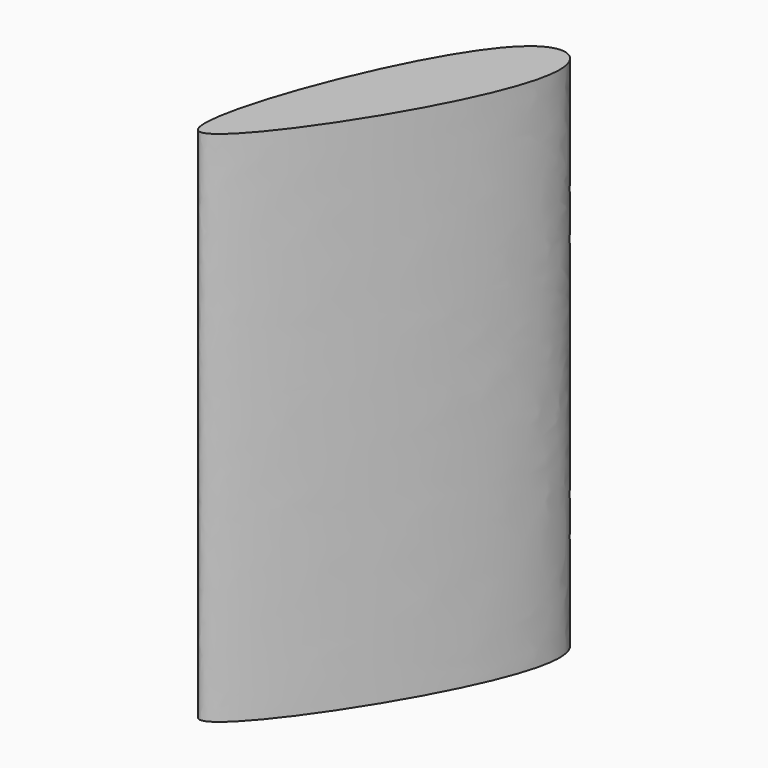
from build123d import *

# Parameters (mm, degrees)
F1_DEPTH = 457.2


with BuildPart() as f1:
    # F0 (on Top) → F1 (new body)
    with BuildSketch(Plane.XY):
        with BuildLine():
            add(Edge.make_bspline(
                [(-0.0077406246, 117.2479676022), (-51.7802370129, 75.5708101304), (-190.3973789919, -307.1261229526), (83.634090704, 109.3008677209), (20.5405069698, 133.7894251424), (-0.0077406246, 117.2479676022)],
                knots=[0, 0, 0, 0, 0.4158651468, 0.8349451813, 1, 1, 1, 1], degree=3))
        make_face()
    extrude(amount=F1_DEPTH)


solid = f1.part
